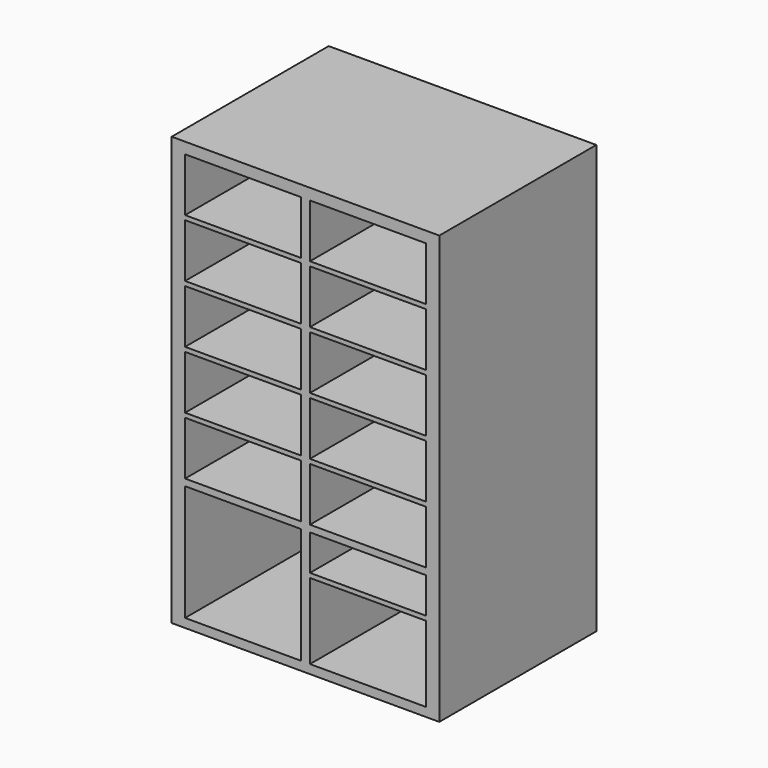
from build123d import *

# Parameters (mm, degrees)
F0_W     = 762
F0_H     = 1219.2
F1_DEPTH = 558.8
F2_W     = 330.2
F2_H     = 152.4
F2_H_2   = 330.2
F2_H_3   = 101.6
F2_H_4   = 215.9
F3_DEPTH = 457.2


with BuildPart() as f1:
    # F0 (on Front) → F1 (new body)
    with BuildSketch(Plane.XZ):
        with Locations((-218.316112, 25.319031)):
            Rectangle(F0_W, F0_H)
    extrude(amount=F1_DEPTH)

    # F2 (on face) → F3 (cut)
    with BuildSketch(Plane.XZ.offset(558.8)):
        with Locations((-396.116112, 526.969031)):
            Rectangle(F2_W, F2_H)
        with Locations((-396.116112, 361.869031)):
            Rectangle(F2_W, F2_H)
        with Locations((-396.116112, 196.769031)):
            Rectangle(F2_W, F2_H)
        with Locations((-396.116112, 31.669031)):
            Rectangle(F2_W, F2_H)
        with Locations((-396.116112, -393.928387)):
            Rectangle(F2_W, F2_H_2)
        with Locations((-396.116112, -133.430969)):
            Rectangle(F2_W, F2_H)
        with Locations((-40.516112, 526.969031)):
            Rectangle(F2_W, F2_H)
        with Locations((-40.516112, 361.869031)):
            Rectangle(F2_W, F2_H)
        with Locations((-40.516112, 196.769031)):
            Rectangle(F2_W, F2_H)
        with Locations((-40.516112, 31.669031)):
            Rectangle(F2_W, F2_H)
        with Locations((-40.516112, -133.430969)):
            Rectangle(F2_W, F2_H)
        with Locations((-40.516112, -279.628387)):
            Rectangle(F2_W, F2_H_3)
        with Locations((-40.516112, -451.078387)):
            Rectangle(F2_W, F2_H_4)
    extrude(amount=-F3_DEPTH, mode=Mode.SUBTRACT)


solid = f1.part
